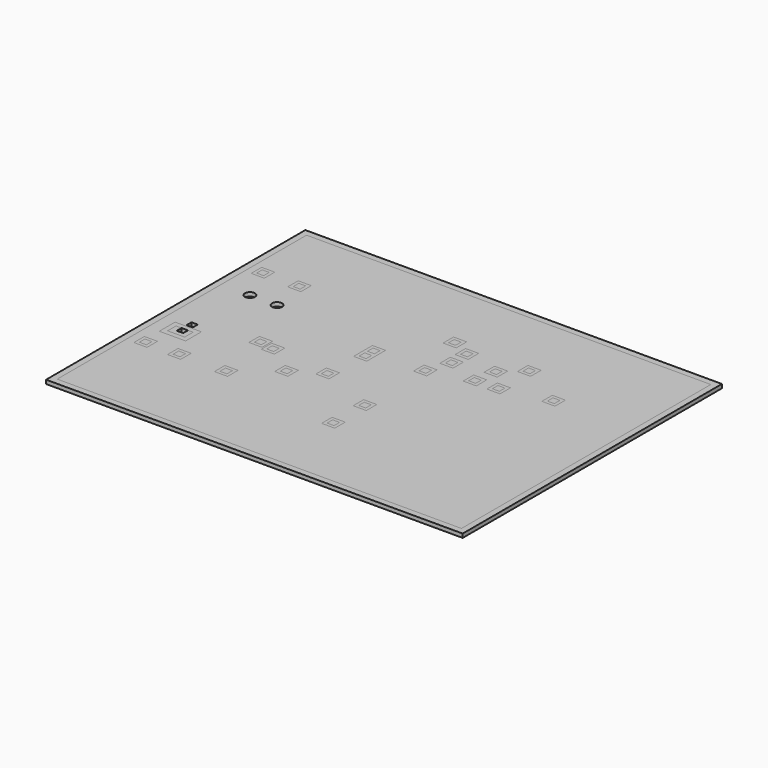
from build123d import *

# Parameters (mm, degrees)
F0_W     = 66.548
F0_H     = 51.308
F0_W_2   = 2.159
F0_H_2   = 2.159
F0_W_3   = 4.331983
F0_H_3   = 3.258714
F0_W_4   = 1.018185
F0_H_4   = 1.01955
F0_R     = 1.328143
F0_R_2   = 1.331345
F0_W_5   = 1.147244
F0_H_5   = 1.147241
F0_W_6   = 1.147245
F0_R_3   = 0.823992
F0_R_4   = 0.826283
F0_H_6   = 1.147242
F1_DEPTH = 0.635
F0_W_7   = 68.58
F0_H_7   = 53.34
F0_H_8   = 0.445398
F0_H_9   = 1.713602
F2_DEPTH = 0.635


with BuildPart() as f1:
    # F0 (on Top) → F1 (new body)
    with BuildSketch(Plane.XY):
        with Locations((-8.991335, 1.242195)):
            Rectangle(F0_W, F0_H)
        with Locations((-39.849046, -9.223095)):
            Rectangle(F0_W_2, F0_H_2, mode=Mode.SUBTRACT)
        with Locations((-34.383599, -9.125823)):
            Rectangle(F0_W_2, F0_H_2, mode=Mode.SUBTRACT)
        with Locations((-26.715961, -9.067735)):
            Rectangle(F0_W_2, F0_H_2, mode=Mode.SUBTRACT)
        with Locations((-38.177897, -4.18129)):
            Rectangle(F0_W_3, F0_H_3, mode=Mode.SUBTRACT)
        with Locations((-38.157756, -1.784549)):
            Rectangle(F0_W_4, F0_H_4, mode=Mode.SUBTRACT)
        with Locations((-28.317141, 0.02986)):
            Rectangle(F0_W_2, F0_H_2, mode=Mode.SUBTRACT)
        with Locations((-20.677273, -4.20082)):
            Rectangle(F0_W_2, F0_H_2, mode=Mode.SUBTRACT)
        with Locations((-25.893743, -0.463035)):
            Rectangle(F0_W_2, F0_H_2, mode=Mode.SUBTRACT)
        with Locations((-16.108013, -1.455963)):
            Rectangle(F0_W_2, F0_H_2, mode=Mode.SUBTRACT)
        with Locations((-6.952649, -11.71426)):
            Rectangle(F0_W_2, F0_H_2, mode=Mode.SUBTRACT)
        with Locations((-6.849963, -5.347704)):
            Rectangle(F0_W_2, F0_H_2, mode=Mode.SUBTRACT)
        with Locations((-37.530616, 9.335068)):
            Circle(F0_R, mode=Mode.SUBTRACT)
        with Locations((-33.069268, 9.335068)):
            Circle(F0_R_2, mode=Mode.SUBTRACT)
        Polygon((-16.466709, 6.494134), (-16.466709, 8.207736), (-14.307709, 8.207736), (-14.307709, 6.494134), (-14.307709, 6.048736), (-14.307709, 4.335134), (-16.466709, 4.335134), (-16.466709, 6.048736), align=None, mode=Mode.SUBTRACT)
        with Locations((-40.103734, 15.231539)):
            Rectangle(F0_W_2, F0_H_2, mode=Mode.SUBTRACT)
        with Locations((-34.091607, 15.231539)):
            Rectangle(F0_W_2, F0_H_2, mode=Mode.SUBTRACT)
        with Locations((-6.813776, 7.027295)):
            Rectangle(F0_W_2, F0_H_2, mode=Mode.SUBTRACT)
        with Locations((-5.52392, 10.828001)):
            Rectangle(F0_W_2, F0_H_2, mode=Mode.SUBTRACT)
        with Locations((-5.509398, 13.950241)):
            Rectangle(F0_W_2, F0_H_2, mode=Mode.SUBTRACT)
        with Locations((-0.094626, 8.843033)):
            Rectangle(F0_W_2, F0_H_2, mode=Mode.SUBTRACT)
        with Locations((3.667999, 9.013422)):
            Rectangle(F0_W_2, F0_H_2, mode=Mode.SUBTRACT)
        with Locations((0.476301, 12.431911)):
            Rectangle(F0_W_2, F0_H_2, mode=Mode.SUBTRACT)
        with Locations((11.327974, 10.752075)):
            Rectangle(F0_W_2, F0_H_2, mode=Mode.SUBTRACT)
        with Locations((-8.718771, 15.489579)):
            Rectangle(F0_W_2, F0_H_2, mode=Mode.SUBTRACT)
        with Locations((3.690732, 15.282107)):
            Rectangle(F0_W_2, F0_H_2, mode=Mode.SUBTRACT)
        with Locations((-40.105856, 15.229418)):
            Rectangle(F0_W_5, F0_H_5)
        with Locations((-34.093729, 15.229418)):
            Rectangle(F0_W_6, F0_H_5)
        with Locations((-37.530616, 9.335068)):
            Circle(F0_R)
        with Locations((-37.530616, 9.335068)):
            Circle(F0_R_3, mode=Mode.SUBTRACT)
        with Locations((-33.069268, 9.335068)):
            Circle(F0_R_2)
        with Locations((-33.069268, 9.335068)):
            Circle(F0_R_4, mode=Mode.SUBTRACT)
        Polygon((-39.581888, -3.313933), (-39.581888, -5.048647), (-36.773905, -5.048647), (-36.773905, -3.30529), (-37.612334, -3.313933), (-37.612334, -4.290657), (-38.666848, -4.290657), (-38.666848, -3.313933), align=None)
        with Locations((-39.851168, -9.225216)):
            Rectangle(F0_W_5, F0_H_5)
        with Locations((-34.385722, -9.127944)):
            Rectangle(F0_W_6, F0_H_5)
        with Locations((-26.718083, -9.069855)):
            Rectangle(F0_W_5, F0_H_5)
        with Locations((-28.319263, 0.027739)):
            Rectangle(F0_W_5, F0_H_6)
        with Locations((-25.895865, -0.465155)):
            Rectangle(F0_W_5, F0_H_5)
        with Locations((-20.679395, -4.202941)):
            Rectangle(F0_W_5, F0_H_5)
        with Locations((-16.110135, -1.458083)):
            Rectangle(F0_W_5, F0_H_5)
        with Locations((-15.389331, 5.412513)):
            Rectangle(F0_W_5, F0_H_5)
        with Locations((-5.526042, 10.825881)):
            Rectangle(F0_W_5, F0_H_5)
        with Locations((-6.815898, 7.025175)):
            Rectangle(F0_W_6, F0_H_5)
        with Locations((-6.954771, -11.71638)):
            Rectangle(F0_W_5, F0_H_5)
        with Locations((-6.852085, -5.349825)):
            Rectangle(F0_W_5, F0_H_5)
        with Locations((-8.720893, 15.487458)):
            Rectangle(F0_W_5, F0_H_6)
        with Locations((-15.389331, 7.126115)):
            Rectangle(F0_W_5, F0_H_5)
        with Locations((-5.51152, 13.94812)):
            Rectangle(F0_W_5, F0_H_5)
        with Locations((0.474179, 12.42979)):
            Rectangle(F0_W_5, F0_H_6)
        with Locations((3.68861, 15.279986)):
            Rectangle(F0_W_5, F0_H_5)
        with Locations((-0.096748, 8.840912)):
            Rectangle(F0_W_6, F0_H_5)
        with Locations((3.665876, 9.011301)):
            Rectangle(F0_W_6, F0_H_5)
        with Locations((11.325852, 10.749954)):
            Rectangle(F0_W_5, F0_H_5)
    extrude(amount=F1_DEPTH)


with BuildPart() as f2:
    # F0 (on Top) → F2 (new body)
    with BuildSketch(Plane.XY):
        with Locations((-8.991335, 1.242195)):
            Rectangle(F0_W_7, F0_H_7)
        with Locations((-8.991335, 1.242195)):
            Rectangle(F0_W, F0_H, mode=Mode.SUBTRACT)
        Polygon((-39.581888, -3.313933), (-39.581888, -5.048647), (-36.773905, -5.048647), (-36.773905, -3.30529), (-37.612334, -3.313933), (-37.612334, -4.290657), (-38.666848, -4.290657), (-38.666848, -3.313933), align=None)
        with Locations((-34.091607, 15.231539)):
            Rectangle(F0_W_2, F0_H_2)
        with Locations((-34.093729, 15.229418)):
            Rectangle(F0_W_6, F0_H_5, mode=Mode.SUBTRACT)
        with Locations((-40.103734, 15.231539)):
            Rectangle(F0_W_2, F0_H_2)
        with Locations((-40.105856, 15.229418)):
            Rectangle(F0_W_5, F0_H_5, mode=Mode.SUBTRACT)
        with Locations((-38.177897, -4.18129)):
            Rectangle(F0_W_3, F0_H_3)
        Polygon((-36.773905, -5.048647), (-39.581888, -5.048647), (-39.581888, -3.313933), (-38.666848, -3.313933), (-37.612334, -3.313933), (-36.773905, -3.30529), align=None, mode=Mode.SUBTRACT)
        with Locations((-28.317141, 0.02986)):
            Rectangle(F0_W_2, F0_H_2)
        with Locations((-28.319263, 0.027739)):
            Rectangle(F0_W_5, F0_H_6, mode=Mode.SUBTRACT)
        with Locations((-25.893743, -0.463035)):
            Rectangle(F0_W_2, F0_H_2)
        with Locations((-25.895865, -0.465155)):
            Rectangle(F0_W_5, F0_H_5, mode=Mode.SUBTRACT)
        with Locations((-20.677273, -4.20082)):
            Rectangle(F0_W_2, F0_H_2)
        with Locations((-20.679395, -4.202941)):
            Rectangle(F0_W_5, F0_H_5, mode=Mode.SUBTRACT)
        with Locations((-16.108013, -1.455963)):
            Rectangle(F0_W_2, F0_H_2)
        with Locations((-16.110135, -1.458083)):
            Rectangle(F0_W_5, F0_H_5, mode=Mode.SUBTRACT)
        with Locations((-15.387209, 6.271435)):
            Rectangle(F0_W_2, F0_H_8)
        with Locations((-15.387209, 5.191935)):
            Rectangle(F0_W_2, F0_H_9)
        with Locations((-15.389331, 5.412513)):
            Rectangle(F0_W_5, F0_H_5, mode=Mode.SUBTRACT)
        with Locations((-15.387209, 7.350935)):
            Rectangle(F0_W_2, F0_H_9)
        with Locations((-15.389331, 7.126115)):
            Rectangle(F0_W_5, F0_H_5, mode=Mode.SUBTRACT)
        with Locations((-8.718771, 15.489579)):
            Rectangle(F0_W_2, F0_H_2)
        with Locations((-8.720893, 15.487458)):
            Rectangle(F0_W_5, F0_H_6, mode=Mode.SUBTRACT)
        with Locations((-5.509398, 13.950241)):
            Rectangle(F0_W_2, F0_H_2)
        with Locations((-5.51152, 13.94812)):
            Rectangle(F0_W_5, F0_H_5, mode=Mode.SUBTRACT)
        with Locations((-5.52392, 10.828001)):
            Rectangle(F0_W_2, F0_H_2)
        with Locations((-5.526042, 10.825881)):
            Rectangle(F0_W_5, F0_H_5, mode=Mode.SUBTRACT)
        with Locations((-6.813776, 7.027295)):
            Rectangle(F0_W_2, F0_H_2)
        with Locations((-6.815898, 7.025175)):
            Rectangle(F0_W_6, F0_H_5, mode=Mode.SUBTRACT)
        with Locations((-0.094626, 8.843033)):
            Rectangle(F0_W_2, F0_H_2)
        with Locations((-0.096748, 8.840912)):
            Rectangle(F0_W_6, F0_H_5, mode=Mode.SUBTRACT)
        with Locations((0.476301, 12.431911)):
            Rectangle(F0_W_2, F0_H_2)
        with Locations((0.474179, 12.42979)):
            Rectangle(F0_W_5, F0_H_6, mode=Mode.SUBTRACT)
        with Locations((3.690732, 15.282107)):
            Rectangle(F0_W_2, F0_H_2)
        with Locations((3.68861, 15.279986)):
            Rectangle(F0_W_5, F0_H_5, mode=Mode.SUBTRACT)
        with Locations((3.667999, 9.013422)):
            Rectangle(F0_W_2, F0_H_2)
        with Locations((3.665876, 9.011301)):
            Rectangle(F0_W_6, F0_H_5, mode=Mode.SUBTRACT)
        with Locations((-6.849963, -5.347704)):
            Rectangle(F0_W_2, F0_H_2)
        with Locations((-6.852085, -5.349825)):
            Rectangle(F0_W_5, F0_H_5, mode=Mode.SUBTRACT)
        with Locations((11.327974, 10.752075)):
            Rectangle(F0_W_2, F0_H_2)
        with Locations((11.325852, 10.749954)):
            Rectangle(F0_W_5, F0_H_5, mode=Mode.SUBTRACT)
        with Locations((-6.952649, -11.71426)):
            Rectangle(F0_W_2, F0_H_2)
        with Locations((-6.954771, -11.71638)):
            Rectangle(F0_W_5, F0_H_5, mode=Mode.SUBTRACT)
        with Locations((-26.715961, -9.067735)):
            Rectangle(F0_W_2, F0_H_2)
        with Locations((-26.718083, -9.069855)):
            Rectangle(F0_W_5, F0_H_5, mode=Mode.SUBTRACT)
        with Locations((-34.383599, -9.125823)):
            Rectangle(F0_W_2, F0_H_2)
        with Locations((-34.385722, -9.127944)):
            Rectangle(F0_W_6, F0_H_5, mode=Mode.SUBTRACT)
        with Locations((-39.849046, -9.223095)):
            Rectangle(F0_W_2, F0_H_2)
        with Locations((-39.851168, -9.225216)):
            Rectangle(F0_W_5, F0_H_5, mode=Mode.SUBTRACT)
    extrude(amount=F2_DEPTH)


solid = Compound([f1.part, f2.part])
